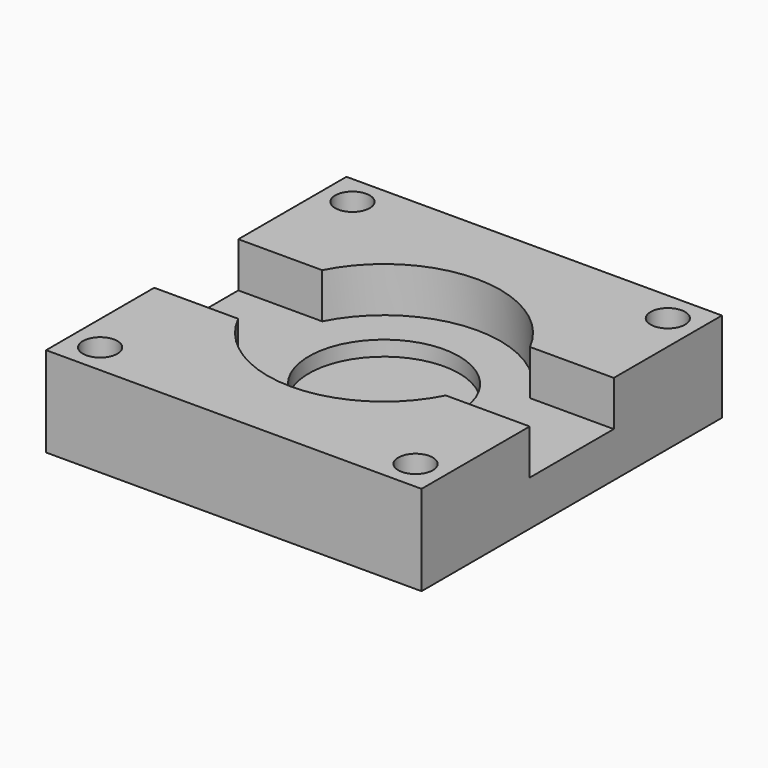
from build123d import *

# Parameters (mm, degrees)
F0_R     = 5
F1_DEPTH = 3
F0_R_2   = 1.15
F2_DEPTH = 6
F3_DEPTH = 2


with BuildPart() as f1:
    # F0 (on Top) → F1 (new body)
    with BuildSketch(Plane.XY):
        with BuildLine():
            ThreePointArc((6.914658, -3.5), (7.538272, -1.799152), (7.75, 0))
            ThreePointArc((7.75, 0), (7.538272, 1.799152), (6.914658, 3.5))
            ThreePointArc((6.914658, 3.5), (0, 7.75), (-6.914658, 3.5))
            ThreePointArc((-6.914658, 3.5), (-7.75, 0), (-6.914658, -3.5))
            ThreePointArc((-6.914658, -3.5), (0, -7.75), (6.914658, -3.5))
        make_face()
        Circle(F0_R, mode=Mode.SUBTRACT)
        with BuildLine():
            ThreePointArc((-6.914658, -3.5), (-7.75, 0), (-6.914658, 3.5))
            Line((-6.914658, 3.5), (-12.5, 3.5))
            Line((-12.5, 3.5), (-12.5, -3.5))
            Line((-12.5, -3.5), (-6.914658, -3.5))
        make_face()
        with BuildLine():
            ThreePointArc((6.914658, 3.5), (7.538272, 1.799152), (7.75, 0))
            ThreePointArc((7.75, 0), (7.538272, -1.799152), (6.914658, -3.5))
            Line((6.914658, -3.5), (12.5, -3.5))
            Line((12.5, -3.5), (12.5, 3.5))
            Line((12.5, 3.5), (6.914658, 3.5))
        make_face()
    extrude(amount=F1_DEPTH)

    # F0 (on Top) → F2 (join)
    with BuildSketch(Plane.XY):
        with BuildLine():
            ThreePointArc((-6.914658, 3.5), (0, 7.75), (6.914658, 3.5))
            Line((6.914658, 3.5), (12.5, 3.5))
            Line((12.5, 3.5), (12.5, 12.5))
            Line((12.5, 12.5), (-12.5, 12.5))
            Line((-12.5, 12.5), (-12.5, 3.5))
            Line((-12.5, 3.5), (-6.914658, 3.5))
        make_face()
        with Locations((-10.5, 10.5)):
            Circle(F0_R_2, mode=Mode.SUBTRACT)
        with Locations((10.5, 10.5)):
            Circle(F0_R_2, mode=Mode.SUBTRACT)
        with BuildLine():
            Line((12.5, -3.5), (6.914658, -3.5))
            ThreePointArc((6.914658, -3.5), (0, -7.75), (-6.914658, -3.5))
            Line((-6.914658, -3.5), (-12.5, -3.5))
            Line((-12.5, -3.5), (-12.5, -12.5))
            Line((-12.5, -12.5), (12.5, -12.5))
            Line((12.5, -12.5), (12.5, -3.5))
        make_face()
        with Locations((-10.5, -10.5)):
            Circle(F0_R_2, mode=Mode.SUBTRACT)
        with Locations((10.5, -10.5)):
            Circle(F0_R_2, mode=Mode.SUBTRACT)
    extrude(amount=F2_DEPTH)

    # F0 (on Top) → F3 (join)
    with BuildSketch(Plane.XY):
        Circle(F0_R)
    extrude(amount=F3_DEPTH)


solid = f1.part
